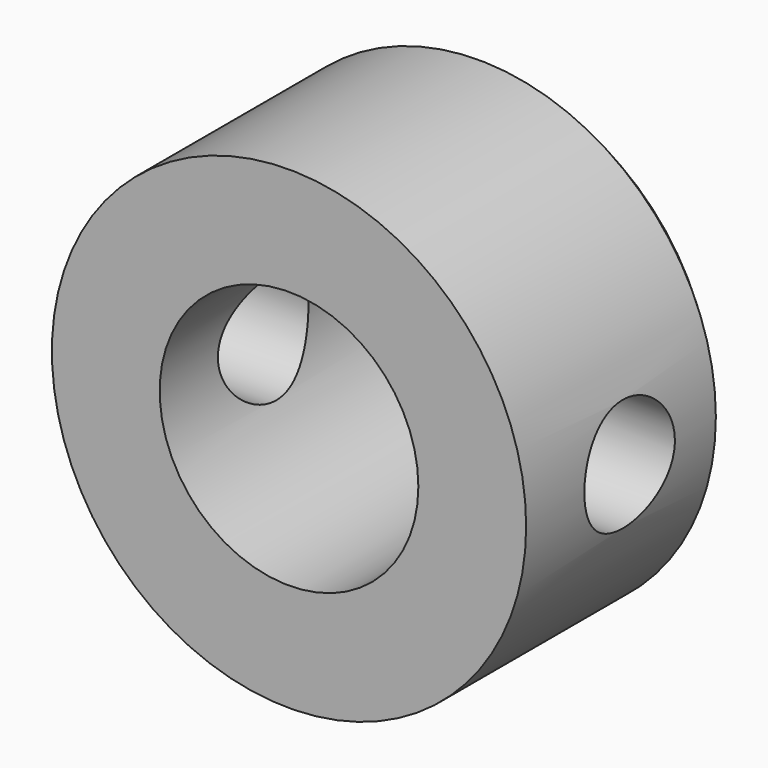
from build123d import *

# Parameters (mm, degrees)
F0_R     = 11
F0_R_2   = 6
F1_DEPTH = 12
F2_SIZE  = 1
F3_R     = 2.625
F4_DEPTH = 12.5


with BuildPart() as f1:
    # F0 (on Front) → F1 (new body)
    with BuildSketch(Plane.XZ):
        Circle(F0_R)
        Circle(F0_R_2, mode=Mode.SUBTRACT)
    extrude(amount=-F1_DEPTH)

    # F2
    f2_edges = [f1.edges().sort_by_distance(p)[0] for p in [
        (-11, 12, 0),
    ]]
    chamfer(f2_edges, length=F2_SIZE)

    # F3 (on Right) → F4 (cut, symmetric)
    with BuildSketch(Plane.YZ):
        with Locations((6, 0)):
            Circle(F3_R)
    extrude(amount=F4_DEPTH, both=True, mode=Mode.SUBTRACT)


solid = f1.part
